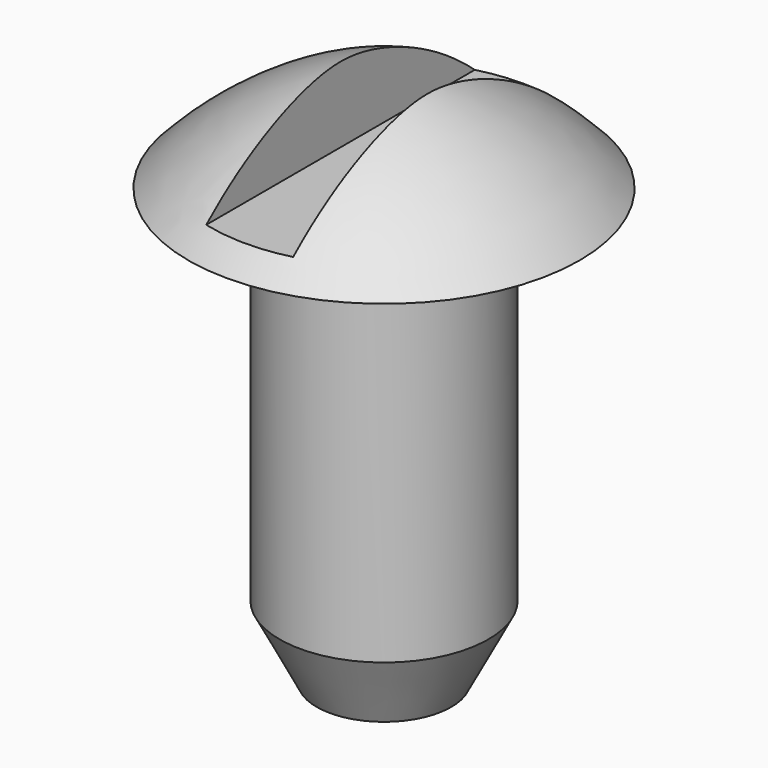
from build123d import *

# Parameters (mm, degrees)
F3_W     = 2.54
F3_H     = 10.16
F4_DEPTH = 2.54


with BuildPart() as f1:
    # F0 (on Right) → F1 (revolve)
    with BuildSketch(Plane.YZ):
        with BuildLine():
            ThreePointArc((5.715, 12.7), (3.104294, 14.73173), (0, 15.875))
            Line((0, 15.875), (0, 0))
            Line((0, 0), (1.966236, 0))
            Line((1.966236, 0), (3.048, 2.089057))
            Line((3.048, 2.089057), (3.048, 12.7))
            Line((3.048, 12.7), (5.715, 12.7))
        make_face()
    revolve(axis=Axis((0, 0, 7.9375), (0, 0, -1)))

    # F3 (on offset) → F4 (cut)
    with BuildSketch(Plane.XY.offset(15.875)):
        Rectangle(F3_W, F3_H)
    extrude(amount=-F4_DEPTH, mode=Mode.SUBTRACT)


solid = f1.part
